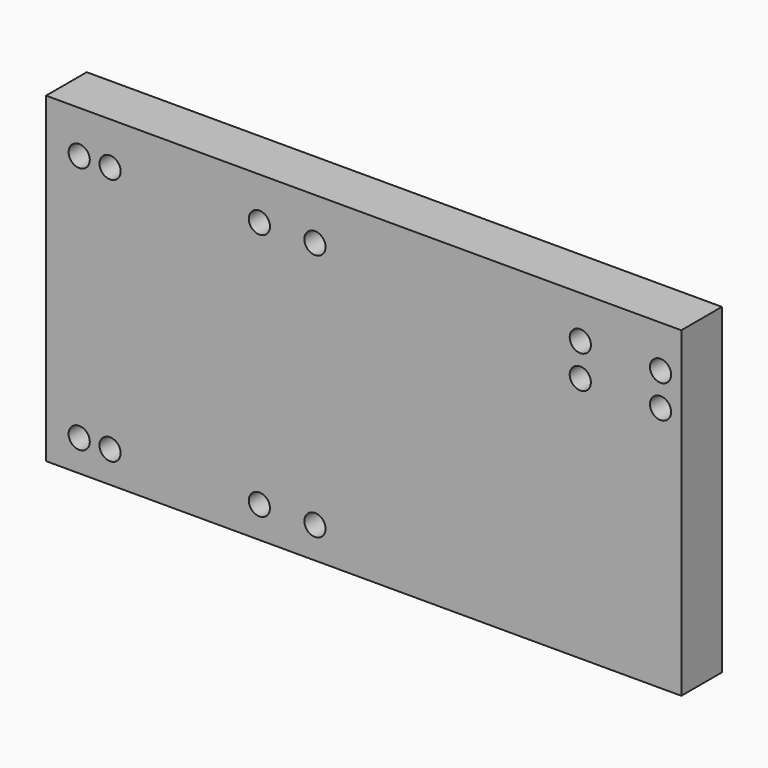
from build123d import *

# Parameters (mm, degrees)
F0_W     = 150.0124
F0_H     = 75.9968
F0_R     = 2.5019
F1_DEPTH = 11.9888


with BuildPart() as f1:
    # F0 (on Front) → F1 (new body)
    with BuildSketch(Plane.XZ):
        with Locations((-0.728689, 7.723104)):
            Rectangle(F0_W, F0_H)
        with Locations((-67.913771, -22.880821)):
            Circle(F0_R, mode=Mode.SUBTRACT)
        with Locations((-60.626887, -22.880821)):
            Circle(F0_R, mode=Mode.SUBTRACT)
        with Locations((-25.35836, -22.880821)):
            Circle(F0_R, mode=Mode.SUBTRACT)
        with Locations((-12.241968, -22.880821)):
            Circle(F0_R, mode=Mode.SUBTRACT)
        with Locations((-67.913771, 35.705738)):
            Circle(F0_R, mode=Mode.SUBTRACT)
        with Locations((-60.626887, 35.705738)):
            Circle(F0_R, mode=Mode.SUBTRACT)
        with Locations((-25.35836, 35.705738)):
            Circle(F0_R, mode=Mode.SUBTRACT)
        with Locations((-12.241968, 35.705738)):
            Circle(F0_R, mode=Mode.SUBTRACT)
        with Locations((50.425246, 27.94271)):
            Circle(F0_R, mode=Mode.SUBTRACT)
        with Locations((50.425246, 35.705738)):
            Circle(F0_R, mode=Mode.SUBTRACT)
        with Locations((69.371149, 27.94271)):
            Circle(F0_R, mode=Mode.SUBTRACT)
        with Locations((69.371149, 35.705738)):
            Circle(F0_R, mode=Mode.SUBTRACT)
    extrude(amount=F1_DEPTH)


solid = f1.part
